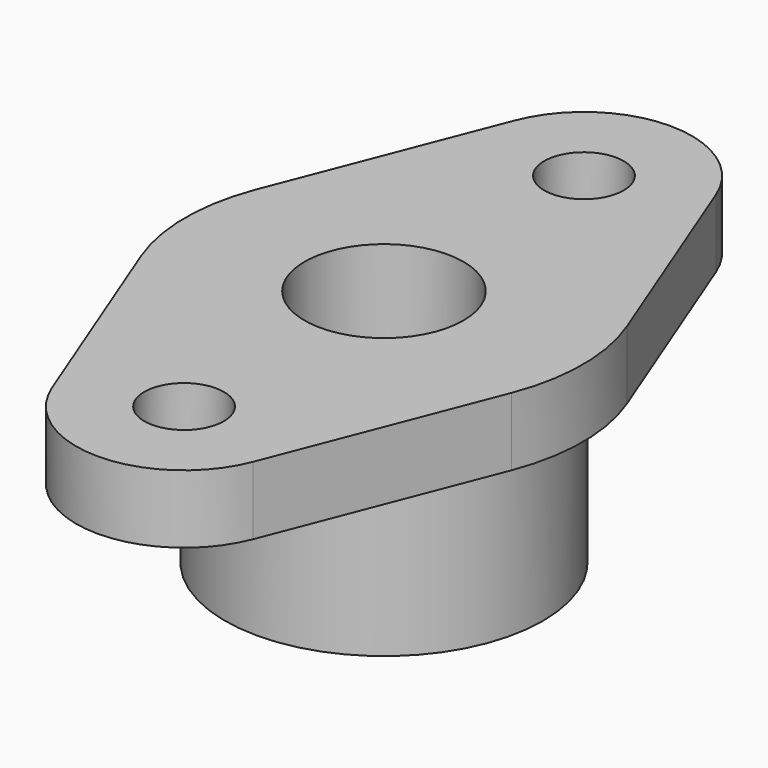
from build123d import *

# Parameters (mm, degrees)
F0_R     = 7
F0_R_2   = 14
F1_DEPTH = 42
F2_R     = 7
F2_R_2   = 28
F3_DEPTH = 30
F4_SIZE2 = 13.856406
F4_SIZE  = 8


with BuildPart() as f1:
    # F0 (on Top) → F1 (new body)
    with BuildSketch(Plane.XY):
        with BuildLine():
            Line((32.603934, 12.727273), (17.699279, 50.909091))
            ThreePointArc((17.699279, 50.909091), (0, 63), (-17.699279, 50.909091))
            Line((-17.699279, 50.909091), (-32.603934, 12.727273))
            ThreePointArc((-32.603934, 12.727273), (-35, 0), (-32.603934, -12.727273))
            Line((-32.603934, -12.727273), (-17.699279, -50.909091))
            ThreePointArc((-17.699279, -50.909091), (0, -63), (17.699279, -50.909091))
            Line((17.699279, -50.909091), (32.603934, -12.727273))
            ThreePointArc((32.603934, -12.727273), (35, 0), (32.603934, 12.727273))
        make_face()
        with Locations((0, -44)):
            Circle(F0_R, mode=Mode.SUBTRACT)
        Circle(F0_R_2, mode=Mode.SUBTRACT)
        with Locations((0, 44)):
            Circle(F0_R, mode=Mode.SUBTRACT)
    extrude(amount=F1_DEPTH)

    # F2 (on face) → F3 (cut)
    with BuildSketch(Plane(origin=(0, 0, 0), x_dir=(1, 0, 0), z_dir=(0, 0, -1))):
        with BuildLine():
            ThreePointArc((-17.699279, -50.909091), (0, -63), (17.699279, -50.909091))
            Line((17.699279, -50.909091), (32.603934, -12.727273))
            ThreePointArc((32.603934, -12.727273), (35, 0), (32.603934, 12.727273))
            Line((32.603934, 12.727273), (17.699279, 50.909091))
            ThreePointArc((17.699279, 50.909091), (0, 63), (-17.699279, 50.909091))
            Line((-17.699279, 50.909091), (-32.603934, 12.727273))
            ThreePointArc((-32.603934, 12.727273), (-35, 0), (-32.603934, -12.727273))
            Line((-32.603934, -12.727273), (-17.699279, -50.909091))
        make_face()
        with Locations((0, -44)):
            Circle(F2_R, mode=Mode.SUBTRACT)
        Circle(F2_R_2, mode=Mode.SUBTRACT)
        with Locations((0, 44)):
            Circle(F2_R, mode=Mode.SUBTRACT)
    extrude(amount=-F3_DEPTH, mode=Mode.SUBTRACT)

    # F4
    f4_edges = [f1.edges().sort_by_distance(p)[0] for p in [
        (-14, 0, 0),
    ]]
    chamfer(f4_edges, length=F4_SIZE, length2=F4_SIZE2)


solid = f1.part
